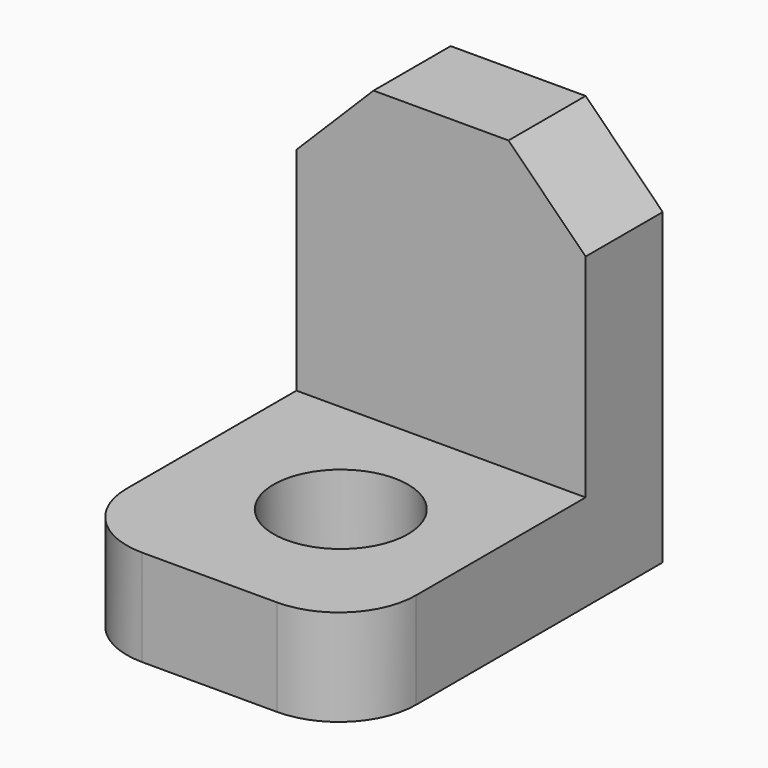
from build123d import *

# Parameters (mm, degrees)
F0_W     = 19.05
F0_H     = 19.05
F1_DEPTH = 6.35
F2_W     = 19.05
F2_H     = 25.4
F3_DEPTH = 6.35
F4_R     = 5.08
F5_R     = 5.08
F6_SIZE  = 5.08
F7_R     = 4.42696
F8_DEPTH = 6.351


with BuildPart() as f1:
    # F0 (on Front) → F1 (new body)
    with BuildSketch(Plane.XZ):
        with Locations((-23.501792, 18.51008)):
            Rectangle(F0_W, F0_H)
    extrude(amount=F1_DEPTH)

    # F2 (on face) → F3 (join)
    with BuildSketch(Plane(origin=(0, 0, 8.98508), x_dir=(1, 0, 0), z_dir=(0, 0, -1))):
        with Locations((-23.501792, 12.7)):
            Rectangle(F2_W, F2_H)
    extrude(amount=F3_DEPTH)

    # F4
    f4_edges = [f1.edges().sort_by_distance(p)[0] for p in [
        (-13.976792, -25.4, 5.81008),
    ]]
    fillet(f4_edges, radius=F4_R)

    # F5
    f5_edges = [f1.edges().sort_by_distance(p)[0] for p in [
        (-33.026792, -25.4, 5.81008),
    ]]
    fillet(f5_edges, radius=F5_R)

    # F6
    f6_edges = [f1.edges().sort_by_distance(p)[0] for p in [
        (-13.976792, -3.175, 28.03508),
        (-33.026792, -3.175, 28.03508),
    ]]
    chamfer(f6_edges, length=F6_SIZE)

    # F7 (on face) → F8 (cut, through all)
    with BuildSketch(Plane.XY.offset(8.98508)):
        with Locations((-22.985389, -15.249236)):
            Circle(F7_R)
    extrude(amount=-F8_DEPTH, mode=Mode.SUBTRACT)


solid = f1.part
